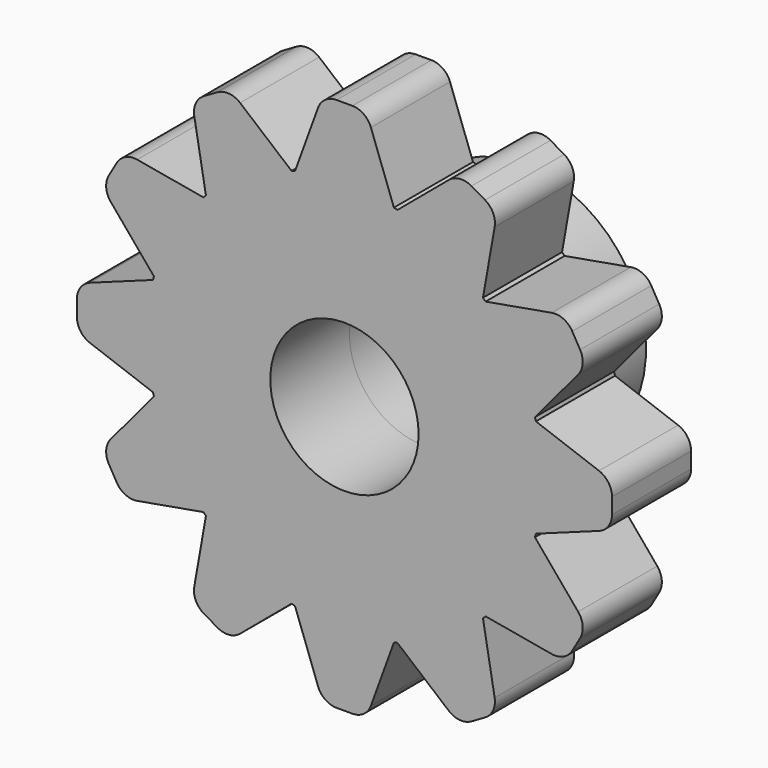
from build123d import *

# Parameters (mm, degrees)
F0_R     = 4
F0_R_2   = 1.5
F1_DEPTH = 2
F3_DEPTH = 2
F4_R     = 2.5
F4_R_2   = 1.5
F5_DEPTH = 2.5
F6_R     = 0.4


with BuildPart() as f1:
    # F0 (on Front) → F1 (new body)
    with BuildSketch(Plane.XZ):
        Circle(F0_R)
        Circle(F0_R_2, mode=Mode.SUBTRACT)
    extrude(amount=F1_DEPTH)

    # F2 (on face) → F3 (join, through all)
    with BuildSketch(Plane.XZ.offset(2)):
        Polygon((0.439486, 5.412983), (0, 5.412983), (-0.439486, 5.412983), (-1, 3.872983), (1, 3.872983), align=None)
        Polygon((-3.087098, 4.468038), (-2.802517, 2.854102), (-1.070466, 3.854102), (-2.325886, 4.907524), (-2.706492, 4.687781), align=None)
        Polygon((-4.907524, 2.325886), (-3.854102, 1.070466), (-2.854102, 2.802517), (-4.468038, 3.087098), (-4.687781, 2.706492), align=None)
        Polygon((-5.412983, -0.439486), (-3.872983, -1), (-3.872983, 1), (-5.412983, 0.439486), (-5.412983, 0), align=None)
        Polygon((-4.468038, -3.087098), (-2.854102, -2.802517), (-3.854102, -1.070466), (-4.907524, -2.325886), (-4.687781, -2.706492), align=None)
        Polygon((-2.325886, -4.907524), (-1.070466, -3.854102), (-2.802517, -2.854102), (-3.087098, -4.468038), (-2.706492, -4.687781), align=None)
        Polygon((0.439486, -5.412983), (1, -3.872983), (-1, -3.872983), (-0.439486, -5.412983), (0, -5.412983), align=None)
        Polygon((3.087098, -4.468038), (2.802517, -2.854102), (1.070466, -3.854102), (2.325886, -4.907524), (2.706492, -4.687781), align=None)
        Polygon((4.907524, -2.325886), (3.854102, -1.070466), (2.854102, -2.802517), (4.468038, -3.087098), (4.687781, -2.706492), align=None)
        Polygon((5.412983, 0.439486), (3.872983, 1), (3.872983, -1), (5.412983, -0.439486), (5.412983, 0), align=None)
        Polygon((4.468038, 3.087098), (2.854102, 2.802517), (3.854102, 1.070466), (4.907524, 2.325886), (4.687781, 2.706492), align=None)
        Polygon((2.325886, 4.907524), (1.070466, 3.854102), (2.802517, 2.854102), (3.087098, 4.468038), (2.706492, 4.687781), align=None)
    extrude(amount=-F3_DEPTH)

    # F4 (on face) → F5 (join)
    with BuildSketch(Plane(origin=(0, 0, 0), x_dir=(-1, 0, 0), z_dir=(0, 1, 0))):
        Circle(F4_R)
        Circle(F4_R_2, mode=Mode.SUBTRACT)
    extrude(amount=F5_DEPTH)

    # F6
    f6_edges = [f1.edges().sort_by_distance(p)[0] for p in [
        (2.325886, -1, 4.907524),
        (3.087098, -1, 4.468038),
        (4.468038, -1, 3.087098),
        (4.907524, -1, 2.325886),
        (5.412983, -1, 0.439486),
        (5.412983, -1, -0.439486),
        (4.907524, -1, -2.325886),
        (4.468038, -1, -3.087098),
        (3.087098, -1, -4.468038),
        (2.325886, -1, -4.907524),
        (0.439486, -1, -5.412983),
        (-0.439486, -1, -5.412983),
        (-2.325886, -1, -4.907524),
        (-3.087098, -1, -4.468038),
        (-4.468038, -1, -3.087098),
        (-4.907524, -1, -2.325886),
        (-5.412983, -1, -0.439486),
        (-5.412983, -1, 0.439486),
        (-4.907524, -1, 2.325886),
        (-4.468038, -1, 3.087098),
        (-3.087098, -1, 4.468038),
        (-2.325886, -1, 4.907524),
        (-0.439486, -1, 5.412983),
        (0.439486, -1, 5.412983),
    ]]
    fillet(f6_edges, radius=F6_R)


solid = f1.part
